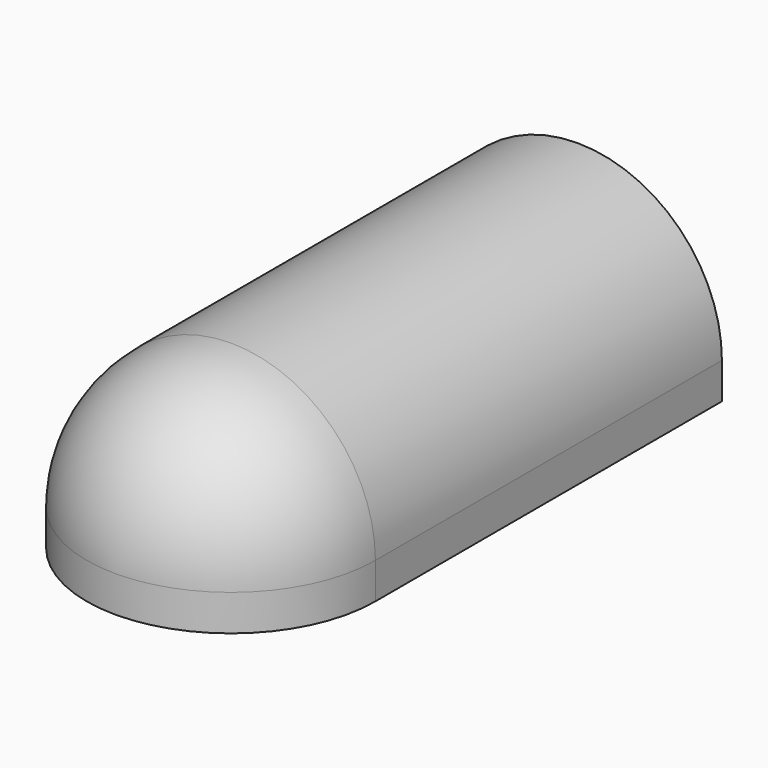
from build123d import *

# Parameters (mm, degrees)
CYLINDER003_W     = 38
CYLINDER003_H     = 120
CYLINDER003_ANGLE = 180
CYLINDER_W        = 40
CYLINDER_H        = 120
CYLINDER_ANGLE    = 180
CYLINDER002_W     = 38
CYLINDER002_H     = 10
CYLINDER002_ANGLE = 180
CYLINDER001_W     = 40
CYLINDER001_H     = 10
CYLINDER001_ANGLE = 180
CYLINDER004_W     = 40
CYLINDER004_H     = 120
CYLINDER004_ANGLE = 180
SPHERE001_ANGLE   = 180
SPHERE_ANGLE      = 180
CYLINDER006_R     = 5
CYLINDER006_DEPTH = 17
CYLINDER005_W     = 38
CYLINDER005_H     = 2.5
CYLINDER005_ANGLE = 180
BOX_W             = 76
BOX_H             = 2.5
BOX_DEPTH         = 10
BOX002_W          = 76
BOX002_H          = 120
BOX002_DEPTH      = 10
BOX001_W          = 80
BOX001_H          = 120
BOX001_DEPTH      = 10


with BuildPart() as obj1:
    # Cylinder003 → Cylinder003 (revolve)
    with BuildSketch(Plane(origin=(40, 20, 40), x_dir=(1, 0, 0), z_dir=(0, 0, -1))):
        with Locations((19, 60)):
            Rectangle(CYLINDER003_W, CYLINDER003_H)
    revolve(axis=Axis((40, 20, 40), (0, -1, 0)), revolution_arc=CYLINDER003_ANGLE)


with BuildPart() as obj2:
    # Cylinder → Cylinder (revolve)
    with BuildSketch(Plane(origin=(40, 20, 40), x_dir=(1, 0, 0), z_dir=(0, 0, -1))):
        with Locations((20, 60)):
            Rectangle(CYLINDER_W, CYLINDER_H)
    revolve(axis=Axis((40, 20, 40), (0, -1, 0)), revolution_arc=CYLINDER_ANGLE)

    # Cut001: cut obj1
    add(obj1.part, mode=Mode.SUBTRACT)


with BuildPart() as obj3:
    # Cylinder002 → Cylinder002 (revolve)
    with BuildSketch(Plane(origin=(40, -100, 30), x_dir=(-1, 0, 0), z_dir=(0, 1, 0))):
        with Locations((19, 5)):
            Rectangle(CYLINDER002_W, CYLINDER002_H)
    revolve(axis=Axis((40, -100, 30), (0, 0, 1)), revolution_arc=CYLINDER002_ANGLE)


with BuildPart() as obj4:
    # Cylinder001 → Cylinder001 (revolve)
    with BuildSketch(Plane(origin=(40, -100, 30), x_dir=(-1, 0, 0), z_dir=(0, 1, 0))):
        with Locations((20, 5)):
            Rectangle(CYLINDER001_W, CYLINDER001_H)
    revolve(axis=Axis((40, -100, 30), (0, 0, 1)), revolution_arc=CYLINDER001_ANGLE)

    # Cut003: cut obj3
    add(obj3.part, mode=Mode.SUBTRACT)


with BuildPart() as cylinder004:
    # Cylinder004 → Cylinder004 (revolve)
    with BuildSketch(Plane(origin=(40, 20, 40), x_dir=(1, 0, 0), z_dir=(0, 0, -1))):
        with Locations((20, 60)):
            Rectangle(CYLINDER004_W, CYLINDER004_H)
    revolve(axis=Axis((40, 20, 40), (0, -1, 0)), revolution_arc=CYLINDER004_ANGLE)


with BuildPart() as obj5:
    # Sphere001 → Sphere001 (revolve)
    with BuildSketch(Plane(origin=(40, -100, 40), x_dir=(1, 0, 0), z_dir=(0, 0, -1))):
        with BuildLine():
            ThreePointArc((0, -38), (38, 0), (0, 38))
            Line((0, 38), (0, -38))
        make_face()
    revolve(axis=Axis((40, -100, 40), (0, -1, 0)), revolution_arc=SPHERE001_ANGLE)


with BuildPart() as obj6:
    # Sphere → Sphere (revolve)
    with BuildSketch(Plane(origin=(40, -100, 40), x_dir=(1, 0, 0), z_dir=(0, 0, -1))):
        with BuildLine():
            ThreePointArc((0, -40), (40, 0), (0, 40))
            Line((0, 40), (0, -40))
        make_face()
    revolve(axis=Axis((40, -100, 40), (0, -1, 0)), revolution_arc=SPHERE_ANGLE)

    # Cut002: cut obj5
    add(obj5.part, mode=Mode.SUBTRACT)

    # Cut004: cut Cylinder004
    add(cylinder004.part, mode=Mode.SUBTRACT)


with BuildPart() as agujero:
    # Cylinder006 → Cylinder006 (new body)
    with BuildSketch(Plane(origin=(40, 24, 40), x_dir=(1, 0, 0), z_dir=(0, -1, 0))):
        Circle(CYLINDER006_R)
    extrude(amount=CYLINDER006_DEPTH)


with BuildPart() as soporte_para_superior:
    # Cylinder005 → Cylinder005 (revolve)
    with BuildSketch(Plane(origin=(40, 17.5, 40), x_dir=(-1, 0, 0), z_dir=(0, 0, -1))):
        with Locations((19, 1.25)):
            Rectangle(CYLINDER005_W, CYLINDER005_H)
    revolve(axis=Axis((40, 17.5, 40), (0, 1, 0)), revolution_arc=CYLINDER005_ANGLE)


with BuildPart() as soporte_con_agujero:
    # Box → Box (new body)
    with BuildSketch(Plane(origin=(2, 17.5, 30), x_dir=(1, 0, 0), z_dir=(0, 0, 1))):
        with Locations((38, 1.25)):
            Rectangle(BOX_W, BOX_H)
    extrude(amount=BOX_DEPTH)

    # Fusion: union Soporte para superior
    add(soporte_para_superior.part)

    # Cut005: cut Agujero
    add(agujero.part, mode=Mode.SUBTRACT)


with BuildPart() as obj7:
    # Box002 → Box002 (new body)
    with BuildSketch(Plane(origin=(2, -100, 30), x_dir=(1, 0, 0), z_dir=(0, 0, 1))):
        with Locations((38, 60)):
            Rectangle(BOX002_W, BOX002_H)
    extrude(amount=BOX002_DEPTH)


with BuildPart() as obj8:
    # Box001 → Box001 (new body)
    with BuildSketch(Plane(origin=(0, -100, 30), x_dir=(1, 0, 0), z_dir=(0, 0, 1))):
        with Locations((40, 60)):
            Rectangle(BOX001_W, BOX001_H)
    extrude(amount=BOX001_DEPTH)

    # Cut: cut obj7
    add(obj7.part, mode=Mode.SUBTRACT)

    # Fusion001: union obj2, obj4, obj6, Soporte con agujero
    add(obj2.part)
    add(obj4.part)
    add(obj6.part)
    add(soporte_con_agujero.part)


solid = obj8.part
